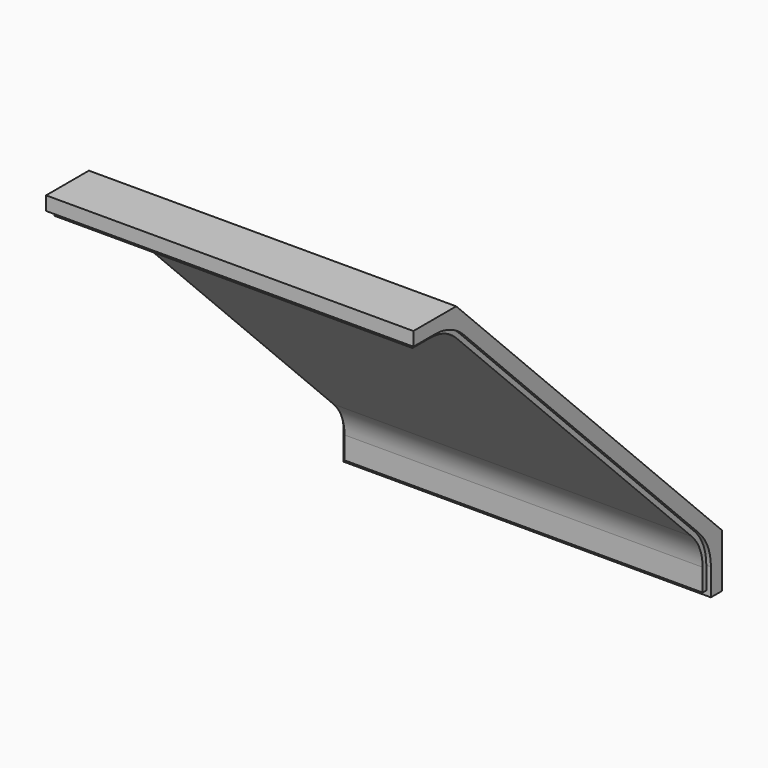
from build123d import *

# Parameters (mm, degrees)
F1_DEPTH  = 2000
F2_R      = 250
F4_DEPTH  = 25
F6_DEPTH  = 25
F7_W      = 1950
F7_H      = 25
F8_DEPTH  = 25
F9_W      = 1950
F9_H      = 25
F10_DEPTH = 25


with BuildPart() as f1:
    # F0 (on Right) → F1 (new body)
    with BuildSketch(Plane.YZ):
        Polygon((-2000, 2100), (-2000, 2000), (-1750, 2000), (0, 250), (0, 0), (100, 0), (100, 291.421356), (-1708.578644, 2100), align=None)
    extrude(amount=F1_DEPTH)

    # F2
    f2_edges = [f1.edges().sort_by_distance(p)[0] for p in [
        (1000, -1750, 2000),
        (1000, 0, 250),
    ]]
    fillet(f2_edges, radius=F2_R)

    # F3 (on face) → F4 (cut)
    with BuildSketch(Plane(origin=(0, 0, 0), x_dir=(0, -1, 0), z_dir=(-1, 0, 0))):
        with BuildLine():
            ThreePointArc((55.545635, 340.900974), (-4.066871, 251.684553), (-25, 146.446609))
            Line((-25, 146.446609), (-25, 0))
            Line((-25, 0), (0, 0))
            Line((0, 0), (0, 146.446609))
            ThreePointArc((0, 146.446609), (19.030117, 242.117467), (73.223305, 323.223305))
            Line((73.223305, 323.223305), (1676.776695, 1926.776695))
            ThreePointArc((1676.776695, 1926.776695), (1757.882533, 1980.969883), (1853.553391, 2000))
            Line((1853.553391, 2000), (2000, 2000))
            Line((2000, 2000), (2000, 2025))
            Line((2000, 2025), (1853.553391, 2025))
            ThreePointArc((1853.553391, 2025), (1748.315447, 2004.066871), (1659.099026, 1944.454365))
            Line((1659.099026, 1944.454365), (55.545635, 340.900974))
        make_face()
    extrude(amount=-F4_DEPTH, mode=Mode.SUBTRACT)

    # F5 (on face) → F6 (cut)
    with BuildSketch(Plane.YZ.offset(2000)):
        with BuildLine():
            Line((25, 0), (25, 146.446609))
            ThreePointArc((25, 146.446609), (4.066871, 251.684553), (-55.545635, 340.900974))
            Line((-55.545635, 340.900974), (-1659.099026, 1944.454365))
            ThreePointArc((-1659.099026, 1944.454365), (-1748.315447, 2004.066871), (-1853.553391, 2025))
            Line((-1853.553391, 2025), (-2000, 2025))
            Line((-2000, 2025), (-2000, 2000))
            Line((-2000, 2000), (-1853.553391, 2000))
            ThreePointArc((-1853.553391, 2000), (-1757.882533, 1980.969883), (-1676.776695, 1926.776695))
            Line((-1676.776695, 1926.776695), (-73.223305, 323.223305))
            ThreePointArc((-73.223305, 323.223305), (-19.030117, 242.117467), (0, 146.446609))
            Line((0, 146.446609), (0, 0))
            Line((0, 0), (25, 0))
        make_face()
    extrude(amount=-F6_DEPTH, mode=Mode.SUBTRACT)

    # F7 (on face) → F8 (cut)
    with BuildSketch(Plane.XZ.offset(2000)):
        with Locations((1000, 2012.5)):
            Rectangle(F7_W, F7_H)
    extrude(amount=-F8_DEPTH, mode=Mode.SUBTRACT)

    # F9 (on face) → F10 (cut)
    with BuildSketch(Plane(origin=(0, 0, 0), x_dir=(1, 0, 0), z_dir=(0, 0, -1))):
        with Locations((1000, -12.5)):
            Rectangle(F9_W, F9_H)
    extrude(amount=-F10_DEPTH, mode=Mode.SUBTRACT)


solid = f1.part
